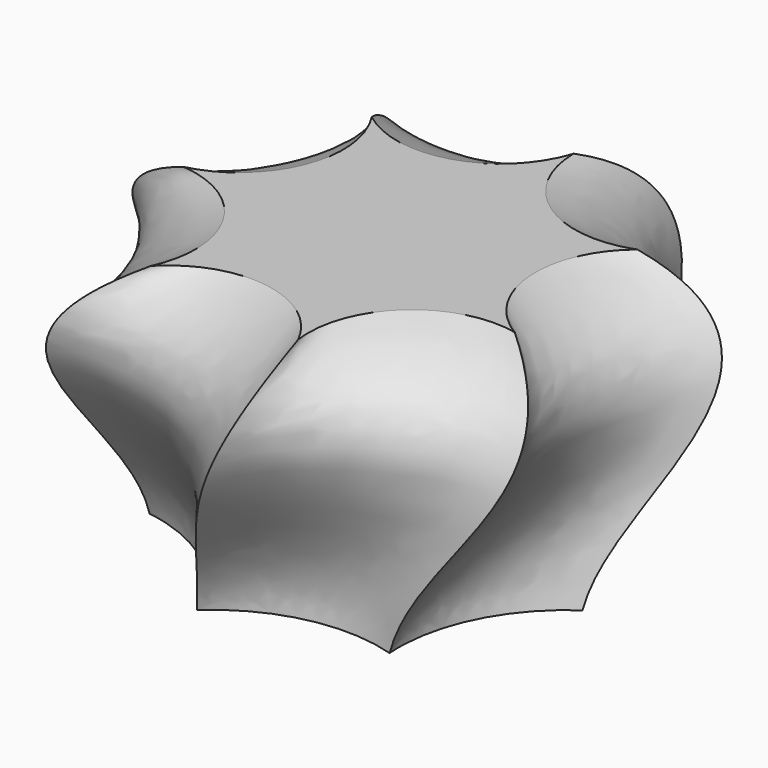
from build123d import *


with BuildPart() as part:
    # Sketch (on XY_Plane of Origin) → AdditiveLoft section 0
    with BuildSketch(Plane.XY):
        with BuildLine():
            ThreePointArc((13.321386, 16.70449), (15.122391, 7.28256), (21.365845, 0))
            ThreePointArc((21.365845, 0), (15.122391, -7.28256), (13.321386, -16.70449))
            ThreePointArc((13.321386, -16.70449), (3.734922, -16.363763), (-4.754348, -20.830158))
            ThreePointArc((-4.754348, -20.830158), (-10.465019, -13.122719), (-19.249961, -9.270293))
            ThreePointArc((-19.249961, -9.270293), (-16.784588, 0), (-19.249961, 9.270293))
            ThreePointArc((-19.249961, 9.270293), (-10.465019, 13.122719), (-4.754348, 20.830158))
            ThreePointArc((-4.754348, 20.830158), (3.734922, 16.363763), (13.321386, 16.70449))
        make_face()
    # Sketch001 (on Sketch) → AdditiveLoft section 1
    with BuildSketch(Plane.XY.offset(10)):
        with BuildLine():
            ThreePointArc((12.146837, 22.305334), (15.826911, 11.378774), (25.012441, 4.410368))
            ThreePointArc((25.012441, 4.410368), (18.764202, -5.279428), (19.043167, -16.805695))
            ThreePointArc((19.043167, -16.805695), (7.571666, -17.962113), (-1.266001, -25.366727))
            ThreePointArc((-1.266001, -25.366727), (-9.322489, -17.118961), (-20.621844, -14.826096))
            ThreePointArc((-20.621844, -14.826096), (-19.19662, -3.384882), (-24.449018, 6.878887))
            ThreePointArc((-24.449018, 6.878887), (-14.615304, 12.898082), (-9.865583, 23.403928))
            ThreePointArc((-9.865583, 23.403928), (0.971634, 19.468527), (12.146837, 22.305334))
        make_face()
    # Sketch002 → AdditiveLoft section 2
    with BuildSketch(Plane.XY.offset(20)):
        with BuildLine():
            ThreePointArc((9.553759, 28.435319), (16.677604, 17.098702), (28.188299, 10.259702))
            ThreePointArc((28.188299, 10.259702), (23.766619, -2.378209), (25.596475, -15.64168))
            ThreePointArc((25.596475, -15.64168), (12.958886, -20.06428), (3.729983, -29.764558))
            ThreePointArc((3.729983, -29.764558), (-7.607153, -22.641539), (-20.945262, -21.474117))
            ThreePointArc((-20.945262, -21.474117), (-22.44485, -8.169257), (-29.848298, 2.986773))
            ThreePointArc((-29.848298, 2.986773), (-20.381118, 12.454642), (-16.274956, 25.198561))
            ThreePointArc((-16.274956, 25.198561), (-2.969988, 23.699942), (9.553759, 28.435319))
        make_face()
    # Sketch003 (on XY_Plane of Origin) → AdditiveLoft section 3
    with BuildSketch(Plane.XY.offset(30)):
        with BuildLine():
            ThreePointArc((3.232355, 21.445277), (8.242463, 12.089473), (18.781933, 10.843754))
            ThreePointArc((18.781933, 10.843754), (14.591023, 1.093446), (20.188332, -7.923336))
            ThreePointArc((20.188332, -7.923336), (9.952244, -10.725968), (6.392505, -20.723993))
            ThreePointArc((6.392505, -20.723993), (-2.180777, -14.46851), (-12.217008, -17.91906))
            ThreePointArc((-12.217008, -17.91906), (-12.671629, -7.315968), (-21.626865, -1.62071))
            ThreePointArc((-21.626865, -1.62071), (-13.620486, 5.345647), (-14.751252, 15.898068))
            ThreePointArc((-14.751252, 15.898068), (-4.312839, 13.981881), (3.232355, 21.445277))
        make_face()
    loft()


solid = part.part
